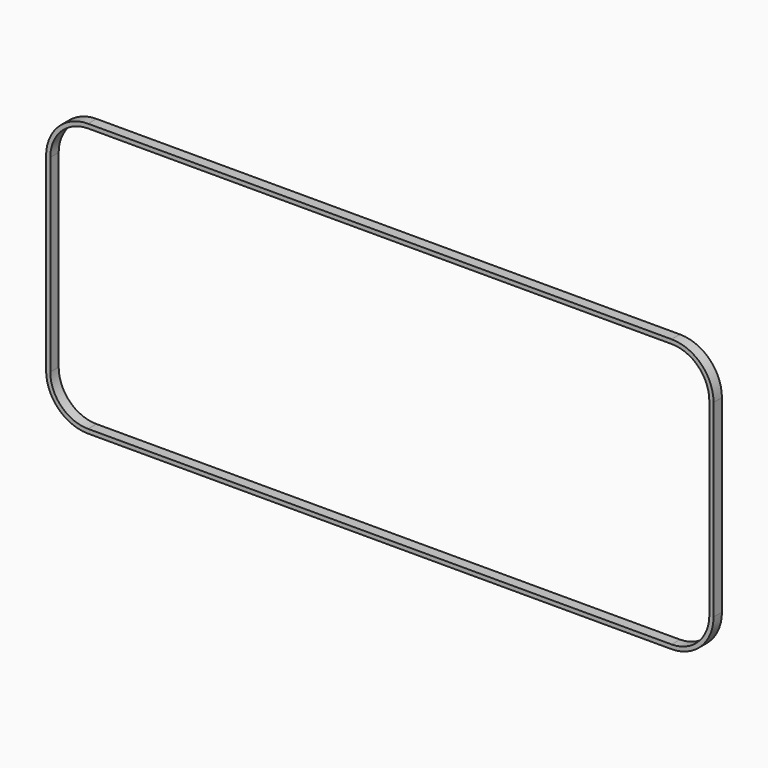
from build123d import *

# Parameters (mm, degrees)
F0_W     = 318
F0_H     = 130
F1_DEPTH = 5
F2_R     = 20
F3_T     = -2


with BuildPart() as f1:
    # F0 (on Front) → F1 (new body)
    with BuildSketch(Plane.XZ):
        Rectangle(F0_W, F0_H)
    extrude(amount=F1_DEPTH)

    # F2
    f2_edges = [f1.edges().sort_by_distance(p)[0] for p in [
        (-159, -2.5, -65),
        (159, -2.5, -65),
        (159, -2.5, 65),
        (-159, -2.5, 65),
    ]]
    fillet(f2_edges, radius=F2_R)

    # F3
    f3_openings = [f1.faces().sort_by_distance(p)[0] for p in [
        (0, -5, 0),
        (0, 0, 0),
    ]]
    offset(amount=F3_T, openings=f3_openings)


solid = f1.part
